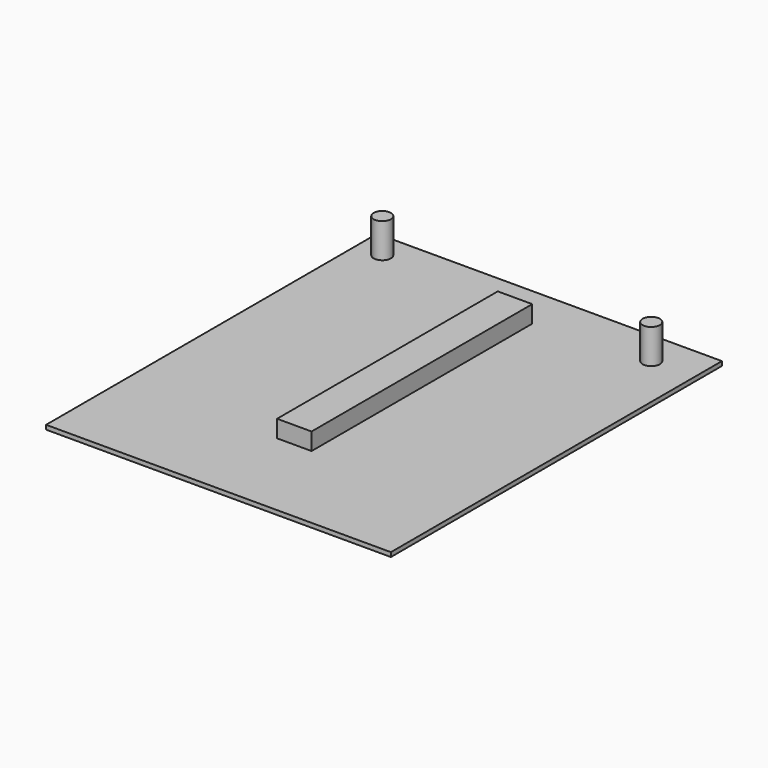
from build123d import *

# Parameters (mm, degrees)
F0_W     = 254
F0_H     = 304.8
F1_DEPTH = 3.175
F2_W     = 25.4
F2_H     = 203.2
F3_DEPTH = 12.7
F4_R     = 6.35
F5_DEPTH = 25.4


with BuildPart() as f1:
    # F0 (on Top) → F1 (new body)
    with BuildSketch(Plane.XY):
        with Locations((127, 152.4)):
            Rectangle(F0_W, F0_H)
    extrude(amount=F1_DEPTH)

    # F2 (on face) → F3 (join)
    with BuildSketch(Plane.XY.offset(3.175)):
        with Locations((127, 171.425429)):
            Rectangle(F2_W, F2_H)
    extrude(amount=F3_DEPTH)

    # F4 (on face) → F5 (join)
    with BuildSketch(Plane.XY.offset(3.175)):
        with Locations((222.25, 279.4)):
            Circle(F4_R)
        with Locations((19.05, 285.75)):
            Circle(F4_R)
    extrude(amount=F5_DEPTH)


solid = f1.part
